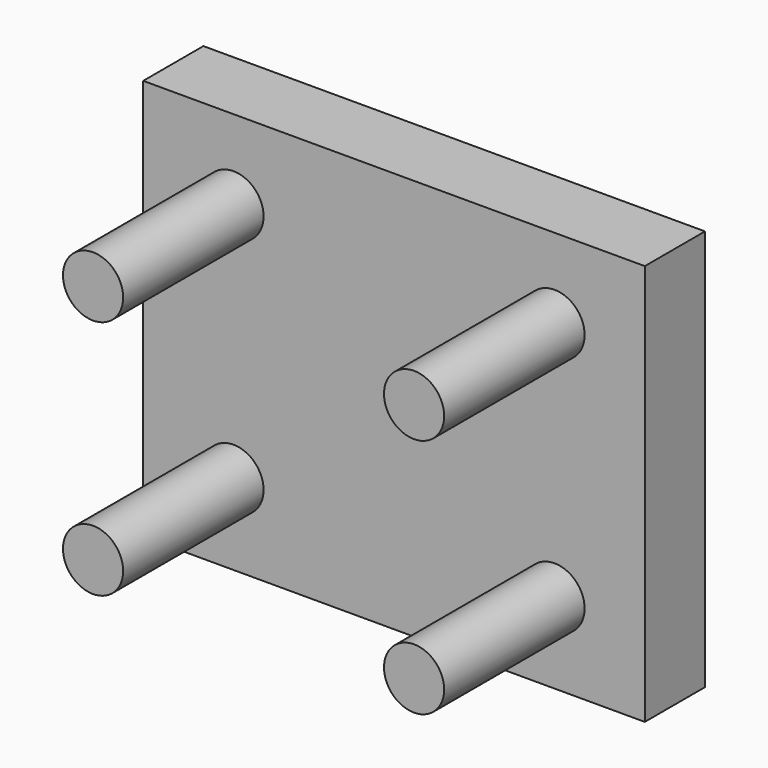
from build123d import *

# Parameters (mm, degrees)
F0_W     = 100
F0_H     = 80
F1_DEPTH = 15
F2_R     = 6
F3_DEPTH = 35


with BuildPart() as f1:
    # F0 (on Front) → F1 (new body)
    with BuildSketch(Plane.XZ):
        Rectangle(F0_W, F0_H)
    extrude(amount=F1_DEPTH)

    # F2 (on face) → F3 (join)
    with BuildSketch(Plane.XZ.offset(15)):
        with Locations((-32, -24)):
            Circle(F2_R)
        with Locations((-32, 24)):
            Circle(F2_R)
        with Locations((32, 24)):
            Circle(F2_R)
        with Locations((32, -24)):
            Circle(F2_R)
    extrude(amount=F3_DEPTH)


solid = f1.part
